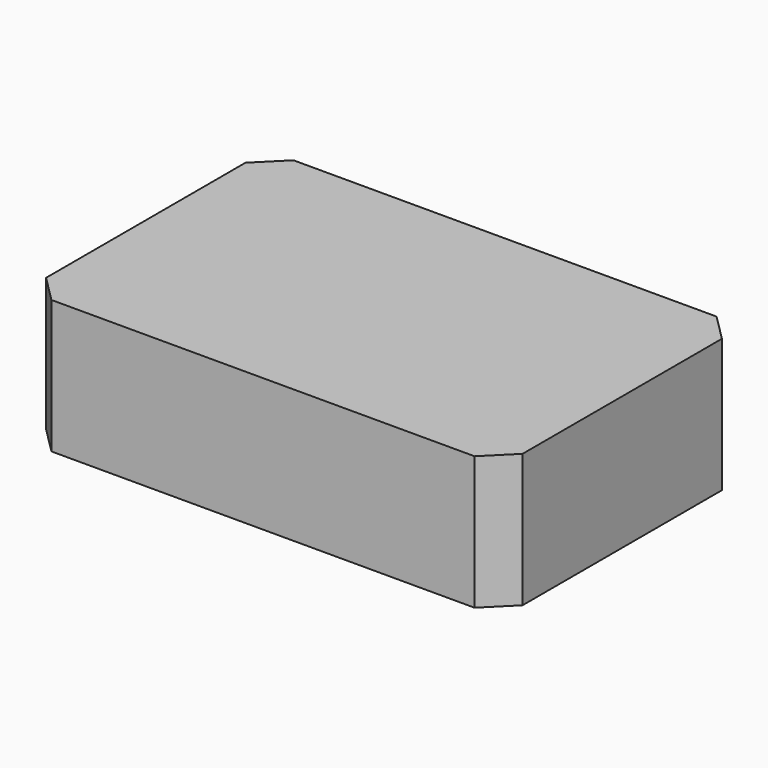
from build123d import *

# Parameters (mm, degrees)
F0_W     = 90.760812
F0_H     = 57.621676
F1_DEPTH = 25.4
F2_SIZE  = 5.08


with BuildPart() as f1:
    # F0 (on Top) → F1 (new body)
    with BuildSketch(Plane.XY):
        Rectangle(F0_W, F0_H)
    extrude(amount=F1_DEPTH)

    # F2
    f2_edges = [f1.edges().sort_by_distance(p)[0] for p in [
        (45.380406, -28.810838, 12.7),
        (45.380406, 28.810838, 12.7),
        (-45.380406, -28.810838, 12.7),
        (-45.380406, 28.810838, 12.7),
    ]]
    chamfer(f2_edges, length=F2_SIZE)


solid = f1.part
